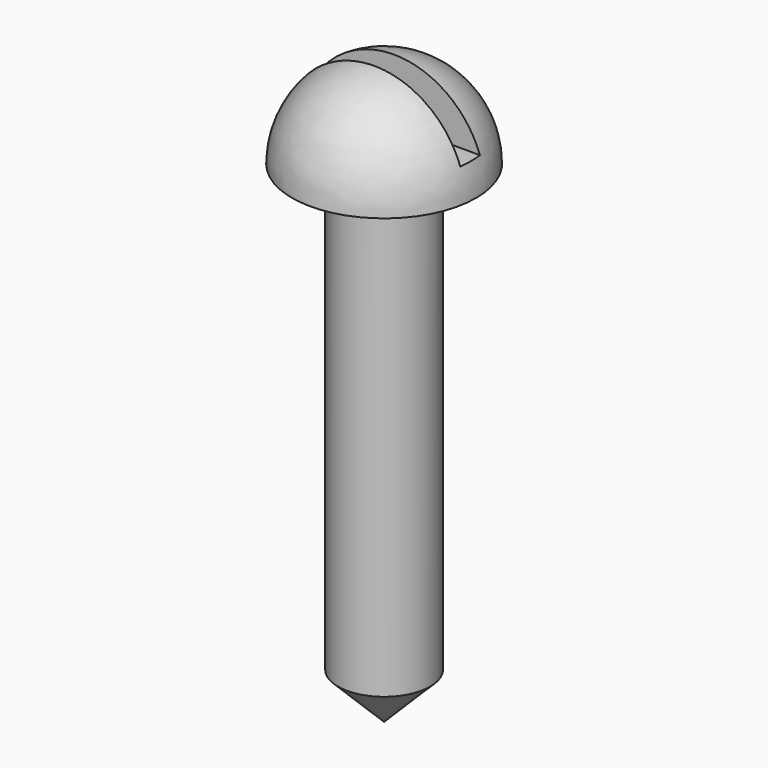
from build123d import *

# Parameters (mm, degrees)
F3_W     = 3
F3_H     = 0.4
F4_DEPTH = 1


with BuildPart() as f1:
    # F0 (on Front) → F1 (revolve)
    with BuildSketch(Plane.XZ):
        with BuildLine():
            Line((0, 9.5), (0, 0))
            Line((0, 0), (0.75, 0.75))
            Line((0.75, 0.75), (0.75, 8))
            Line((0.75, 8), (1.5, 8))
            ThreePointArc((1.5, 8), (1.06066, 9.06066), (0, 9.5))
        make_face()
    revolve(axis=Axis((0, 0, 4.75), (0, 0, 1)))

    # F3 (on offset) → F4 (cut)
    with BuildSketch(Plane.XY.offset(9.5)):
        Rectangle(F3_W, F3_H)
    extrude(amount=-F4_DEPTH, mode=Mode.SUBTRACT)


solid = f1.part
